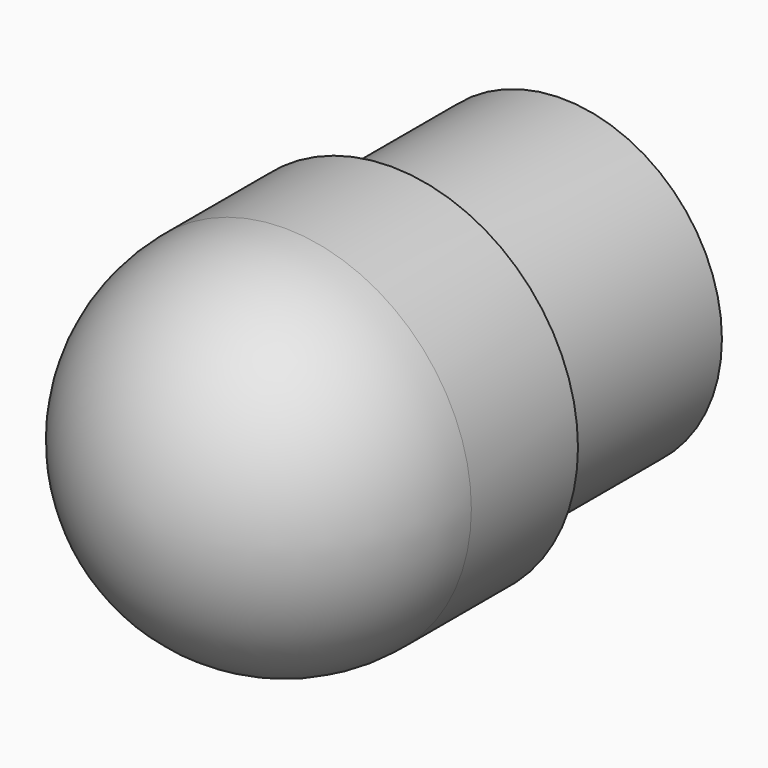
from build123d import *

# Parameters (mm, degrees)
F0_R     = 17.5
F0_R_2   = 15
F1_DEPTH = 30
F2_DEPTH = 20
F3_R     = 17.5


with BuildPart() as f1:
    # F0 (on Front) → F1 (new body)
    with BuildSketch(Plane.XZ):
        Circle(F0_R)
        Circle(F0_R_2, mode=Mode.SUBTRACT)
        Circle(F0_R_2)
    extrude(amount=F1_DEPTH)

    # F0 (on Front) → F2 (join)
    with BuildSketch(Plane.XZ):
        Circle(F0_R_2)
    extrude(amount=-F2_DEPTH)

    # F3
    f3_edges = [f1.edges().sort_by_distance(p)[0] for p in [
        (-17.5, -30, 0),
    ]]
    fillet(f3_edges, radius=F3_R)


solid = f1.part
